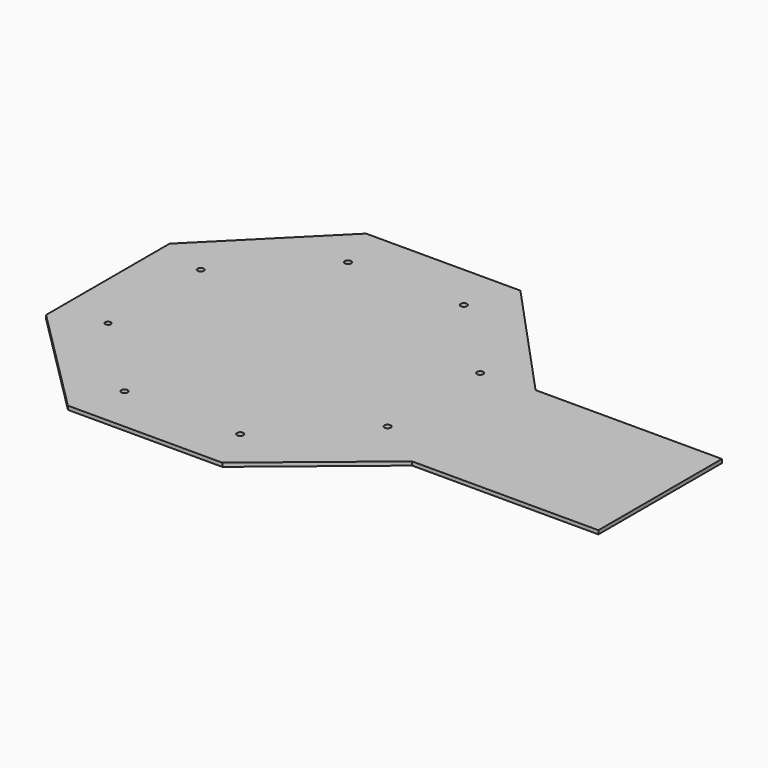
from build123d import *

# Parameters (mm, degrees)
F0_R     = 1.7
F0_R_2   = 1.5
F1_DEPTH = 2


with BuildPart() as f1:
    # F0 (on Top) → F1 (new body)
    with BuildSketch(Plane.XY):
        Polygon((41.421356, 100), (-41.421356, 100), (-100, 41.421356), (-100, -41.421356), (-41.421356, -100), (41.421356, -100), (102.809891, -49.384143), (202.809891, -49.384143), (202.809891, 33.458857), (102.809891, 33.458857), align=None)
        with Locations((-31.066017, -75)):
            Circle(F0_R, mode=Mode.SUBTRACT)
        with Locations((31.066017, -75)):
            Circle(F0_R, mode=Mode.SUBTRACT)
        with Locations((-75, -31.066017)):
            Circle(F0_R_2, mode=Mode.SUBTRACT)
        with Locations((75, -31.066017)):
            Circle(F0_R, mode=Mode.SUBTRACT)
        with Locations((-75, 31.066017)):
            Circle(F0_R, mode=Mode.SUBTRACT)
        with Locations((-31.066017, 75)):
            Circle(F0_R, mode=Mode.SUBTRACT)
        with Locations((31.066017, 75)):
            Circle(F0_R, mode=Mode.SUBTRACT)
        with Locations((75, 31.066017)):
            Circle(F0_R, mode=Mode.SUBTRACT)
    extrude(amount=F1_DEPTH)


solid = f1.part
